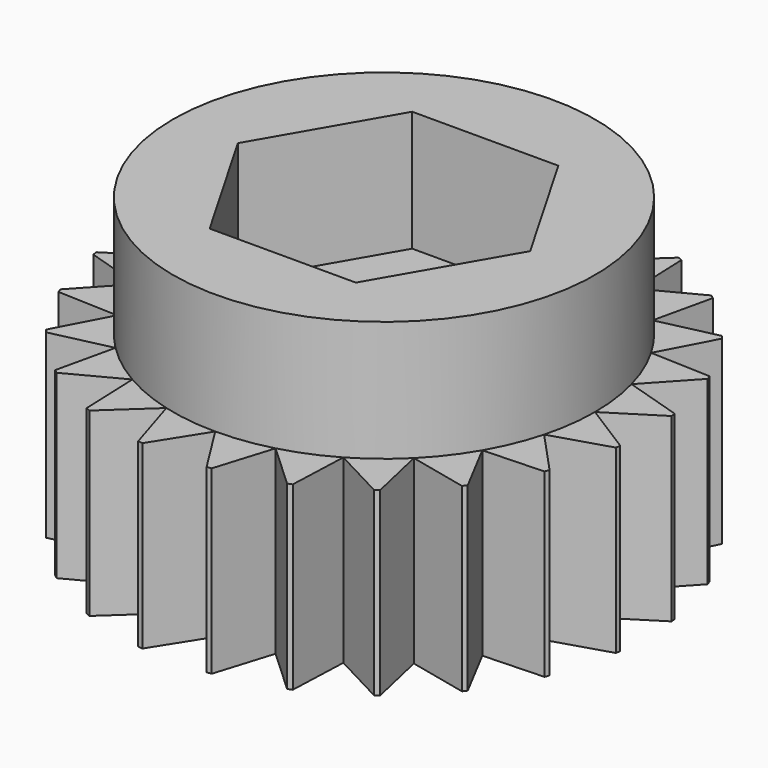
from build123d import *

# Parameters (mm, degrees)
F3_DEPTH = 2.54
F4_R     = 6.6719294198
F5_DEPTH = 25.4


with BuildPart() as f1:
    # F0 (on Front) → F1 (revolve)
    with BuildSketch(Plane.XZ):
        Polygon((-5.56, -6.35), (-1.75, -6.35), (-1.75, 0), (-4.445, 0), (-4.445, -2.54), (-5.56, -2.54), align=None)
    revolve(axis=Axis((0, 0, -3.175), (0, 0, -1)))

    # F2 (on face) → F3 (cut)
    with BuildSketch(Plane.XY):
        Polygon((1.5397931679, 2.667), (-1.5397931679, 2.667), (-3.0795863359, 0), (-1.5397931679, -2.667), (1.5397931679, -2.667), (3.0795863359, 0), align=None)
    extrude(amount=-F3_DEPTH, mode=Mode.SUBTRACT)

    # F4 (on face) → F5 (cut)
    with BuildSketch(Plane.XY.offset(-2.54)):
        Circle(F4_R)
        with BuildLine():
            ThreePointArc((-0.7741932024, 5.5058355302), (-0.7257256287, 5.5124334292), (-0.6772018857, 5.5186046793))
            ThreePointArc((-0.6772018857, 5.5186046793), (0, 5.56), (0.6772018857, 5.5186046793))
            ThreePointArc((0.6772018857, 5.5186046793), (0.7257256287, 5.5124334292), (0.7741932024, 5.5058355302))
            ThreePointArc((0.7741932024, 5.5058355302), (1.4390338908, 5.3705475942), (2.0824467844, 5.1552900394))
            ThreePointArc((2.0824467844, 5.1552900394), (2.1277198839, 5.1367702008), (2.1728283032, 5.1178527885))
            ThreePointArc((2.1728283032, 5.1178527885), (2.78, 4.815101245), (3.3457763761, 4.4406509029))
            ThreePointArc((3.3457763761, 4.4406509029), (3.3847135453, 4.411044572), (3.4233887458, 4.381096837))
            ThreePointArc((3.4233887458, 4.381096837), (3.9315137034, 3.9315137034), (4.381096837, 3.4233887458))
            ThreePointArc((4.381096837, 3.4233887458), (4.411044572, 3.3847135453), (4.4406509029, 3.3457763761))
            ThreePointArc((4.4406509029, 3.3457763761), (4.815101245, 2.78), (5.1178527885, 2.1728283032))
            ThreePointArc((5.1178527885, 2.1728283032), (5.1367702008, 2.1277198839), (5.1552900394, 2.0824467844))
            ThreePointArc((5.1552900394, 2.0824467844), (5.3705475942, 1.4390338908), (5.5058355302, 0.7741932024))
            ThreePointArc((5.5058355302, 0.7741932024), (5.5124334292, 0.7257256287), (5.5186046793, 0.6772018857))
            ThreePointArc((5.5186046793, 0.6772018857), (5.5496415207, 0.339232946), (5.56, 0))
            ThreePointArc((5.56, 0), (5.5496415207, -0.339232946), (5.5186046793, -0.6772018857))
            ThreePointArc((5.5186046793, -0.6772018857), (5.5124334292, -0.7257256287), (5.5058355302, -0.7741932024))
            ThreePointArc((5.5058355302, -0.7741932024), (5.3705475942, -1.4390338908), (5.1552900394, -2.0824467844))
            ThreePointArc((5.1552900394, -2.0824467844), (5.1367702008, -2.1277198839), (5.1178527885, -2.1728283032))
            ThreePointArc((5.1178527885, -2.1728283032), (4.815101245, -2.78), (4.4406509029, -3.3457763761))
            ThreePointArc((4.4406509029, -3.3457763761), (4.411044572, -3.3847135453), (4.381096837, -3.4233887458))
            ThreePointArc((4.381096837, -3.4233887458), (3.9315137034, -3.9315137034), (3.4233887458, -4.381096837))
            ThreePointArc((3.4233887458, -4.381096837), (3.3847135453, -4.411044572), (3.3457763761, -4.4406509029))
            ThreePointArc((3.3457763761, -4.4406509029), (2.78, -4.815101245), (2.1728283032, -5.1178527885))
            ThreePointArc((2.1728283032, -5.1178527885), (2.1277198839, -5.1367702008), (2.0824467844, -5.1552900394))
            ThreePointArc((2.0824467844, -5.1552900394), (1.4390338908, -5.3705475942), (0.7741932024, -5.5058355302))
            ThreePointArc((0.7741932024, -5.5058355302), (0.7257256287, -5.5124334292), (0.6772018857, -5.5186046793))
            ThreePointArc((0.6772018857, -5.5186046793), (0, -5.56), (-0.6772018857, -5.5186046793))
            ThreePointArc((-0.6772018857, -5.5186046793), (-0.7257256287, -5.5124334292), (-0.7741932024, -5.5058355302))
            ThreePointArc((-0.7741932024, -5.5058355302), (-1.4390338908, -5.3705475942), (-2.0824467844, -5.1552900394))
            ThreePointArc((-2.0824467844, -5.1552900394), (-2.1277198839, -5.1367702008), (-2.1728283032, -5.1178527885))
            ThreePointArc((-2.1728283032, -5.1178527885), (-2.78, -4.815101245), (-3.3457763761, -4.4406509029))
            ThreePointArc((-3.3457763761, -4.4406509029), (-3.3847135453, -4.411044572), (-3.4233887458, -4.381096837))
            ThreePointArc((-3.4233887458, -4.381096837), (-3.9315137034, -3.9315137034), (-4.381096837, -3.4233887458))
            ThreePointArc((-4.381096837, -3.4233887458), (-4.411044572, -3.3847135453), (-4.4406509029, -3.3457763761))
            ThreePointArc((-4.4406509029, -3.3457763761), (-4.815101245, -2.78), (-5.1178527885, -2.1728283032))
            ThreePointArc((-5.1178527885, -2.1728283032), (-5.1367702008, -2.1277198839), (-5.1552900394, -2.0824467844))
            ThreePointArc((-5.1552900394, -2.0824467844), (-5.3705475942, -1.4390338908), (-5.5058355302, -0.7741932024))
            ThreePointArc((-5.5058355302, -0.7741932024), (-5.5124334292, -0.7257256287), (-5.5186046793, -0.6772018857))
            ThreePointArc((-5.5186046793, -0.6772018857), (-5.56, 0), (-5.5186046793, 0.6772018857))
            ThreePointArc((-5.5186046793, 0.6772018857), (-5.5124334292, 0.7257256287), (-5.5058355302, 0.7741932024))
            ThreePointArc((-5.5058355302, 0.7741932024), (-5.3705475942, 1.4390338908), (-5.1552900394, 2.0824467844))
            ThreePointArc((-5.1552900394, 2.0824467844), (-5.1367702008, 2.1277198839), (-5.1178527885, 2.1728283032))
            ThreePointArc((-5.1178527885, 2.1728283032), (-4.815101245, 2.78), (-4.4406509029, 3.3457763761))
            ThreePointArc((-4.4406509029, 3.3457763761), (-4.411044572, 3.3847135453), (-4.381096837, 3.4233887458))
            ThreePointArc((-4.381096837, 3.4233887458), (-3.9315137034, 3.9315137034), (-3.4233887458, 4.381096837))
            ThreePointArc((-3.4233887458, 4.381096837), (-3.3847135453, 4.411044572), (-3.3457763761, 4.4406509029))
            ThreePointArc((-3.3457763761, 4.4406509029), (-2.78, 4.815101245), (-2.1728283032, 5.1178527885))
            ThreePointArc((-2.1728283032, 5.1178527885), (-2.1277198839, 5.1367702008), (-2.0824467844, 5.1552900394))
            ThreePointArc((-2.0824467844, 5.1552900394), (-1.4390338908, 5.3705475942), (-0.7741932024, 5.5058355302))
        make_face(mode=Mode.SUBTRACT)
        with BuildLine():
            Line((-5.1178527885, 2.1728283032), (-3.8494829198, 2.2225))
            Line((-3.8494829198, 2.2225), (-4.4406509029, 3.3457763761))
            ThreePointArc((-4.4406509029, 3.3457763761), (-4.815101245, 2.78), (-5.1178527885, 2.1728283032))
        make_face()
        with BuildLine():
            Line((-4.381096837, 3.4233887458), (-3.1430896424, 3.1430896424))
            Line((-3.1430896424, 3.1430896424), (-3.4233887458, 4.381096837))
            ThreePointArc((-3.4233887458, 4.381096837), (-3.9315137034, 3.9315137034), (-4.381096837, 3.4233887458))
        make_face()
        with BuildLine():
            Line((-3.3457763761, 4.4406509029), (-2.2225, 3.8494829198))
            Line((-2.2225, 3.8494829198), (-2.1728283032, 5.1178527885))
            ThreePointArc((-2.1728283032, 5.1178527885), (-2.78, 4.815101245), (-3.3457763761, 4.4406509029))
        make_face()
        with BuildLine():
            Line((-2.0824467844, 5.1552900394), (-1.1504506555, 4.2935402979))
            Line((-1.1504506555, 4.2935402979), (-0.7741932024, 5.5058355302))
            ThreePointArc((-0.7741932024, 5.5058355302), (-1.4390338908, 5.3705475942), (-2.0824467844, 5.1552900394))
        make_face()
        with BuildLine():
            Line((-5.5058355302, 0.7741932024), (-4.2935402979, 1.1504506555))
            Line((-4.2935402979, 1.1504506555), (-5.1552900394, 2.0824467844))
            ThreePointArc((-5.1552900394, 2.0824467844), (-5.3705475942, 1.4390338908), (-5.5058355302, 0.7741932024))
        make_face()
        with BuildLine():
            Line((-5.5186046793, -0.6772018857), (-4.445, 0))
            Line((-4.445, 0), (-5.5186046793, 0.6772018857))
            ThreePointArc((-5.5186046793, 0.6772018857), (-5.56, 0), (-5.5186046793, -0.6772018857))
        make_face()
        with BuildLine():
            Line((-5.1552900394, -2.0824467844), (-4.2935402979, -1.1504506555))
            Line((-4.2935402979, -1.1504506555), (-5.5058355302, -0.7741932024))
            ThreePointArc((-5.5058355302, -0.7741932024), (-5.3705475942, -1.4390338908), (-5.1552900394, -2.0824467844))
        make_face()
        with BuildLine():
            Line((-4.4406509029, -3.3457763761), (-3.8494829198, -2.2225))
            Line((-3.8494829198, -2.2225), (-5.1178527885, -2.1728283032))
            ThreePointArc((-5.1178527885, -2.1728283032), (-4.815101245, -2.78), (-4.4406509029, -3.3457763761))
        make_face()
        with BuildLine():
            Line((-3.4233887458, -4.381096837), (-3.1430896424, -3.1430896424))
            Line((-3.1430896424, -3.1430896424), (-4.381096837, -3.4233887458))
            ThreePointArc((-4.381096837, -3.4233887458), (-3.9315137034, -3.9315137034), (-3.4233887458, -4.381096837))
        make_face()
        with BuildLine():
            Line((-2.1728283032, -5.1178527885), (-2.2225, -3.8494829198))
            Line((-2.2225, -3.8494829198), (-3.3457763761, -4.4406509029))
            ThreePointArc((-3.3457763761, -4.4406509029), (-2.78, -4.815101245), (-2.1728283032, -5.1178527885))
        make_face()
        with BuildLine():
            Line((-0.7741932024, -5.5058355302), (-1.1504506555, -4.2935402979))
            Line((-1.1504506555, -4.2935402979), (-2.0824467844, -5.1552900394))
            ThreePointArc((-2.0824467844, -5.1552900394), (-1.4390338908, -5.3705475942), (-0.7741932024, -5.5058355302))
        make_face()
        with BuildLine():
            Line((0.6772018857, -5.5186046793), (0, -4.445))
            Line((0, -4.445), (-0.6772018857, -5.5186046793))
            ThreePointArc((-0.6772018857, -5.5186046793), (0, -5.56), (0.6772018857, -5.5186046793))
        make_face()
        with BuildLine():
            Line((2.0824467844, -5.1552900394), (1.1504506555, -4.2935402979))
            Line((1.1504506555, -4.2935402979), (0.7741932024, -5.5058355302))
            ThreePointArc((0.7741932024, -5.5058355302), (1.4390338908, -5.3705475942), (2.0824467844, -5.1552900394))
        make_face()
        with BuildLine():
            Line((3.3457763761, -4.4406509029), (2.2225, -3.8494829198))
            Line((2.2225, -3.8494829198), (2.1728283032, -5.1178527885))
            ThreePointArc((2.1728283032, -5.1178527885), (2.78, -4.815101245), (3.3457763761, -4.4406509029))
        make_face()
        with BuildLine():
            Line((4.381096837, -3.4233887458), (3.1430896424, -3.1430896424))
            Line((3.1430896424, -3.1430896424), (3.4233887458, -4.381096837))
            ThreePointArc((3.4233887458, -4.381096837), (3.9315137034, -3.9315137034), (4.381096837, -3.4233887458))
        make_face()
        with BuildLine():
            Line((5.1178527885, -2.1728283032), (3.8494829198, -2.2225))
            Line((3.8494829198, -2.2225), (4.4406509029, -3.3457763761))
            ThreePointArc((4.4406509029, -3.3457763761), (4.815101245, -2.78), (5.1178527885, -2.1728283032))
        make_face()
        with BuildLine():
            Line((5.5058355302, -0.7741932024), (4.2935402979, -1.1504506555))
            Line((4.2935402979, -1.1504506555), (5.1552900394, -2.0824467844))
            ThreePointArc((5.1552900394, -2.0824467844), (5.3705475942, -1.4390338908), (5.5058355302, -0.7741932024))
        make_face()
        with BuildLine():
            Line((5.5186046793, 0.6772018857), (4.445, 0))
            Line((4.445, 0), (5.5186046793, -0.6772018857))
            ThreePointArc((5.5186046793, -0.6772018857), (5.5496415207, -0.339232946), (5.56, 0))
            ThreePointArc((5.56, 0), (5.5496415207, 0.339232946), (5.5186046793, 0.6772018857))
        make_face()
        with BuildLine():
            Line((5.1552900394, 2.0824467844), (4.2935402979, 1.1504506555))
            Line((4.2935402979, 1.1504506555), (5.5058355302, 0.7741932024))
            ThreePointArc((5.5058355302, 0.7741932024), (5.3705475942, 1.4390338908), (5.1552900394, 2.0824467844))
        make_face()
        with BuildLine():
            Line((4.4406509029, 3.3457763761), (3.8494829198, 2.2225))
            Line((3.8494829198, 2.2225), (5.1178527885, 2.1728283032))
            ThreePointArc((5.1178527885, 2.1728283032), (4.815101245, 2.78), (4.4406509029, 3.3457763761))
        make_face()
        with BuildLine():
            Line((3.4233887458, 4.381096837), (3.1430896424, 3.1430896424))
            Line((3.1430896424, 3.1430896424), (4.381096837, 3.4233887458))
            ThreePointArc((4.381096837, 3.4233887458), (3.9315137034, 3.9315137034), (3.4233887458, 4.381096837))
        make_face()
        with BuildLine():
            Line((2.1728283032, 5.1178527885), (2.2225, 3.8494829198))
            Line((2.2225, 3.8494829198), (3.3457763761, 4.4406509029))
            ThreePointArc((3.3457763761, 4.4406509029), (2.78, 4.815101245), (2.1728283032, 5.1178527885))
        make_face()
        with BuildLine():
            Line((0.7741932024, 5.5058355302), (1.1504506555, 4.2935402979))
            Line((1.1504506555, 4.2935402979), (2.0824467844, 5.1552900394))
            ThreePointArc((2.0824467844, 5.1552900394), (1.4390338908, 5.3705475942), (0.7741932024, 5.5058355302))
        make_face()
        with BuildLine():
            Line((-0.6772018857, 5.5186046793), (0, 4.445))
            Line((0, 4.445), (0.6772018857, 5.5186046793))
            ThreePointArc((0.6772018857, 5.5186046793), (0, 5.56), (-0.6772018857, 5.5186046793))
        make_face()
    extrude(amount=-F5_DEPTH, mode=Mode.SUBTRACT)


solid = f1.part
